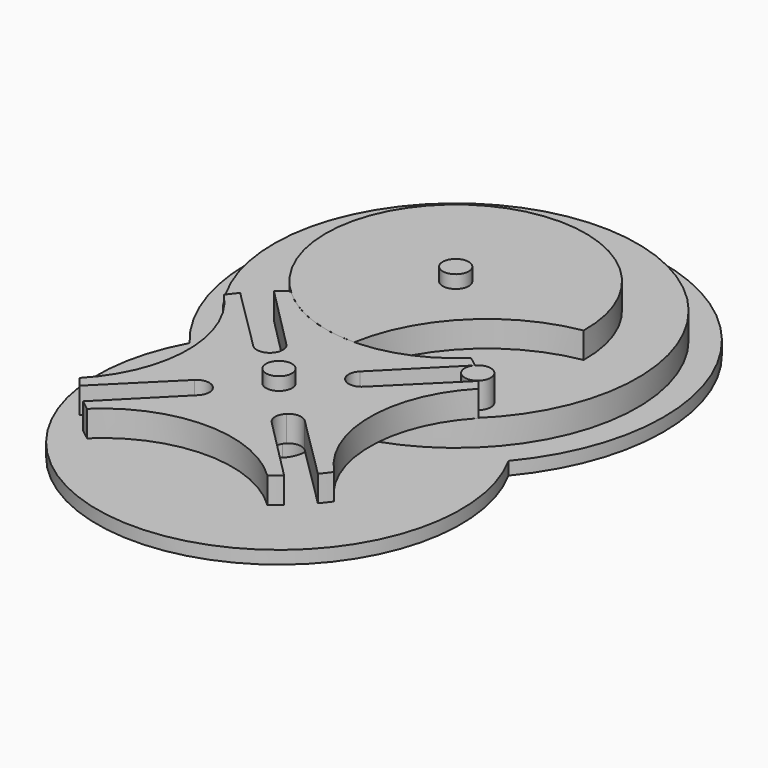
from build123d import *

# Parameters (mm, degrees)
F1_R      = 70
F1_R_2    = 5
F2_DEPTH  = 10
F3_DEPTH  = 10
F4_ANGLE  = 45
F6_DEPTH  = 10
F7_DEPTH  = 10
F8_R      = 5
F9_DEPTH  = 5
F10_DEPTH = 25


with BuildPart() as f2:
    # F1 (on Top) → F2 (new body, through all)
    with BuildSketch(Plane.XY):
        Circle(F1_R)
        with Locations((0, -60)):
            Circle(F1_R_2, mode=Mode.SUBTRACT)
        with BuildLine():
            ThreePointArc((-34.6681624533, -36.0294117647), (0, 50), (34.6681624533, -36.0294117647))
            ThreePointArc((34.6681624533, -36.0294117647), (0, -25), (-34.6681624533, -36.0294117647))
        make_face(mode=Mode.SUBTRACT)
        with BuildLine():
            ThreePointArc((-34.6681624533, -36.0294117647), (0, -25), (34.6681624533, -36.0294117647))
            ThreePointArc((34.6681624533, -36.0294117647), (0, 50), (-34.6681624533, -36.0294117647))
        make_face()
        Circle(F1_R_2, mode=Mode.SUBTRACT)
        with Locations((0, -60)):
            Circle(F1_R_2)
    extrude(amount=-F2_DEPTH)

    # F1 (on Top) → F3 (join)
    with BuildSketch(Plane.XY):
        with BuildLine():
            ThreePointArc((-34.6681624533, -36.0294117647), (0, -25), (34.6681624533, -36.0294117647))
            ThreePointArc((34.6681624533, -36.0294117647), (0, 50), (-34.6681624533, -36.0294117647))
        make_face()
        Circle(F1_R_2, mode=Mode.SUBTRACT)
        with Locations((0, -60)):
            Circle(F1_R_2)
    extrude(amount=F3_DEPTH)


with BuildPart() as f2_1:
    # F4: moved
    add(f2.part.rotate(Axis((0, 0, 10), (0, 0, 1)), F4_ANGLE))


with BuildPart() as f6:
    # F5 (on Top) → F6 (new body)
    with BuildSketch(Plane.XY):
        with BuildLine():
            ThreePointArc((34.6681624533, -36.0294117647), (0, -50), (-34.6681624533, -36.0294117647))
            ThreePointArc((-34.6681624533, -36.0294117647), (-36.6987085211, -37.532065635), (-38.6642052515, -39.1188575527))
            Line((-38.6642052515, -39.1188575527), (-14.1316690741, -63.7972941912))
            ThreePointArc((-14.1316690741, -63.7972941912), (-12.6776750234, -67.3297424342), (-14.1421356237, -70.8578643763))
            Line((-14.1421356237, -70.8578643763), (-7.0710678119, -77.9289321881))
            ThreePointArc((-7.0710678119, -77.9289321881), (0, -75), (7.0710678119, -77.9289321881))
            Line((7.0710678119, -77.9289321881), (14.1421356237, -70.8578643763))
            ThreePointArc((14.1421356237, -70.8578643763), (12.6776750234, -67.3297424342), (14.1316690741, -63.7972941912))
            Line((14.1316690741, -63.7972941912), (38.6642052515, -39.1188575527))
            ThreePointArc((38.6642052515, -39.1188575527), (36.6987085211, -37.532065635), (34.6681624533, -36.0294117647))
        make_face()
        with BuildLine():
            Line((-7.0710678119, -77.9289321881), (-14.1421356237, -70.8578643763))
            ThreePointArc((-14.1421356237, -70.8578643763), (-17.6702575658, -72.3223249766), (-21.2027058088, -70.8683309259))
            Line((-21.2027058088, -70.8683309259), (-45.8811424473, -46.3357947485))
            ThreePointArc((-45.8811424473, -46.3357947485), (-47.467934365, -48.3012914789), (-48.9705882353, -50.3318375467))
            ThreePointArc((-48.9705882353, -50.3318375467), (-35, -85), (-48.9705882353, -119.6681624533))
            ThreePointArc((-48.9705882353, -119.6681624533), (-47.467934365, -121.6987085211), (-45.8811424473, -123.6642052515))
            Line((-45.8811424473, -123.6642052515), (-21.2027058088, -99.1316690741))
            ThreePointArc((-21.2027058088, -99.1316690741), (-17.6702575658, -97.6776750234), (-14.1421356237, -99.1421356237))
            Line((-14.1421356237, -99.1421356237), (-7.0710678119, -92.0710678119))
            ThreePointArc((-7.0710678119, -92.0710678119), (-10, -85), (-7.0710678119, -77.9289321881))
        make_face()
        with BuildLine():
            ThreePointArc((21.2027058088, -70.8683309259), (17.6702575658, -72.3223249766), (14.1421356237, -70.8578643763))
            Line((14.1421356237, -70.8578643763), (7.0710678119, -77.9289321881))
            ThreePointArc((7.0710678119, -77.9289321881), (9.2387953251, -81.1731656763), (10, -85))
            ThreePointArc((10, -85), (9.2387953251, -88.8268343237), (7.0710678119, -92.0710678119))
            Line((7.0710678119, -92.0710678119), (14.1421356237, -99.1421356237))
            ThreePointArc((14.1421356237, -99.1421356237), (17.6702575658, -97.6776750234), (21.2027058088, -99.1316690741))
            Line((21.2027058088, -99.1316690741), (45.8811424473, -123.6642052515))
            ThreePointArc((45.8811424473, -123.6642052515), (47.467934365, -121.6987085211), (48.9705882353, -119.6681624533))
            ThreePointArc((48.9705882353, -119.6681624533), (35, -85), (48.9705882353, -50.3318375467))
            ThreePointArc((48.9705882353, -50.3318375467), (47.467934365, -48.3012914789), (45.8811424473, -46.3357947485))
            Line((45.8811424473, -46.3357947485), (21.2027058088, -70.8683309259))
        make_face()
        with BuildLine():
            ThreePointArc((7.0710678119, -92.0710678119), (0, -95), (-7.0710678119, -92.0710678119))
            Line((-7.0710678119, -92.0710678119), (-14.1421356237, -99.1421356237))
            ThreePointArc((-14.1421356237, -99.1421356237), (-12.6776750234, -102.6702575658), (-14.1316690741, -106.2027058088))
            Line((-14.1316690741, -106.2027058088), (-38.6642052515, -130.8811424473))
            ThreePointArc((-38.6642052515, -130.8811424473), (-36.6987085211, -132.467934365), (-34.6681624533, -133.9705882353))
            ThreePointArc((-34.6681624533, -133.9705882353), (0, -120), (34.6681624533, -133.9705882353))
            ThreePointArc((34.6681624533, -133.9705882353), (36.6987085211, -132.467934365), (38.6642052515, -130.8811424473))
            Line((38.6642052515, -130.8811424473), (14.1316690741, -106.2027058088))
            ThreePointArc((14.1316690741, -106.2027058088), (12.6776750234, -102.6702575658), (14.1421356237, -99.1421356237))
            Line((14.1421356237, -99.1421356237), (7.0710678119, -92.0710678119))
        make_face()
        with BuildLine():
            Line((-3.5355339059, -81.4644660941), (-7.0710678119, -77.9289321881))
            ThreePointArc((-7.0710678119, -77.9289321881), (-10, -85), (-7.0710678119, -92.0710678119))
            Line((-7.0710678119, -92.0710678119), (-3.5355339059, -88.5355339059))
            ThreePointArc((-3.5355339059, -88.5355339059), (-5, -85), (-3.5355339059, -81.4644660941))
        make_face()
        with BuildLine():
            ThreePointArc((7.0710678119, -77.9289321881), (0, -75), (-7.0710678119, -77.9289321881))
            Line((-7.0710678119, -77.9289321881), (-3.5355339059, -81.4644660941))
            ThreePointArc((-3.5355339059, -81.4644660941), (0, -80), (3.5355339059, -81.4644660941))
            Line((3.5355339059, -81.4644660941), (7.0710678119, -77.9289321881))
        make_face()
        with BuildLine():
            ThreePointArc((10, -85), (9.2387953251, -81.1731656763), (7.0710678119, -77.9289321881))
            Line((7.0710678119, -77.9289321881), (3.5355339059, -81.4644660941))
            ThreePointArc((3.5355339059, -81.4644660941), (4.6193976626, -83.0865828382), (5, -85))
            ThreePointArc((5, -85), (4.6193976626, -86.9134171618), (3.5355339059, -88.5355339059))
            Line((3.5355339059, -88.5355339059), (7.0710678119, -92.0710678119))
            ThreePointArc((7.0710678119, -92.0710678119), (9.2387953251, -88.8268343237), (10, -85))
        make_face()
        with BuildLine():
            Line((-3.5355339059, -88.5355339059), (-7.0710678119, -92.0710678119))
            ThreePointArc((-7.0710678119, -92.0710678119), (0, -95), (7.0710678119, -92.0710678119))
            Line((7.0710678119, -92.0710678119), (3.5355339059, -88.5355339059))
            ThreePointArc((3.5355339059, -88.5355339059), (0, -90), (-3.5355339059, -88.5355339059))
        make_face()
    extrude(amount=F6_DEPTH)

    # F5 (on Top) → F7 (join, through all)
    with BuildSketch(Plane.XY):
        with BuildLine():
            ThreePointArc((10, -85), (9.2387953251, -81.1731656763), (7.0710678119, -77.9289321881))
            Line((7.0710678119, -77.9289321881), (3.5355339059, -81.4644660941))
            ThreePointArc((3.5355339059, -81.4644660941), (4.6193976626, -83.0865828382), (5, -85))
            ThreePointArc((5, -85), (4.6193976626, -86.9134171618), (3.5355339059, -88.5355339059))
            Line((3.5355339059, -88.5355339059), (7.0710678119, -92.0710678119))
            ThreePointArc((7.0710678119, -92.0710678119), (9.2387953251, -88.8268343237), (10, -85))
        make_face()
        with BuildLine():
            Line((-3.5355339059, -88.5355339059), (-7.0710678119, -92.0710678119))
            ThreePointArc((-7.0710678119, -92.0710678119), (0, -95), (7.0710678119, -92.0710678119))
            Line((7.0710678119, -92.0710678119), (3.5355339059, -88.5355339059))
            ThreePointArc((3.5355339059, -88.5355339059), (0, -90), (-3.5355339059, -88.5355339059))
        make_face()
        with BuildLine():
            Line((-3.5355339059, -81.4644660941), (-7.0710678119, -77.9289321881))
            ThreePointArc((-7.0710678119, -77.9289321881), (-10, -85), (-7.0710678119, -92.0710678119))
            Line((-7.0710678119, -92.0710678119), (-3.5355339059, -88.5355339059))
            ThreePointArc((-3.5355339059, -88.5355339059), (-5, -85), (-3.5355339059, -81.4644660941))
        make_face()
        with BuildLine():
            ThreePointArc((7.0710678119, -77.9289321881), (0, -75), (-7.0710678119, -77.9289321881))
            Line((-7.0710678119, -77.9289321881), (-3.5355339059, -81.4644660941))
            ThreePointArc((-3.5355339059, -81.4644660941), (0, -80), (3.5355339059, -81.4644660941))
            Line((3.5355339059, -81.4644660941), (7.0710678119, -77.9289321881))
        make_face()
    extrude(amount=-F7_DEPTH)


with BuildPart() as f9:
    # F8 (on offset) → F9 (new body)
    with BuildSketch(Plane.XY.offset(-10)):
        with BuildLine():
            ThreePointArc((-61.3668911443, -51.3235294118), (0, -155), (61.3668911443, -51.3235294118))
            ThreePointArc((61.3668911443, -51.3235294118), (0, 80), (-61.3668911443, -51.3235294118))
        make_face()
        with Locations((0, -85)):
            Circle(F8_R, mode=Mode.SUBTRACT)
        Circle(F8_R, mode=Mode.SUBTRACT)
        with Locations((0, -85)):
            Circle(F8_R)
        Circle(F8_R)
    extrude(amount=-F9_DEPTH)

    # F8 (on offset) → F10 (join)
    with BuildSketch(Plane.XY.offset(-10)):
        Circle(F8_R)
        with Locations((0, -85)):
            Circle(F8_R)
    extrude(amount=F10_DEPTH)


solid = Compound([f2_1.part, f6.part, f9.part])
